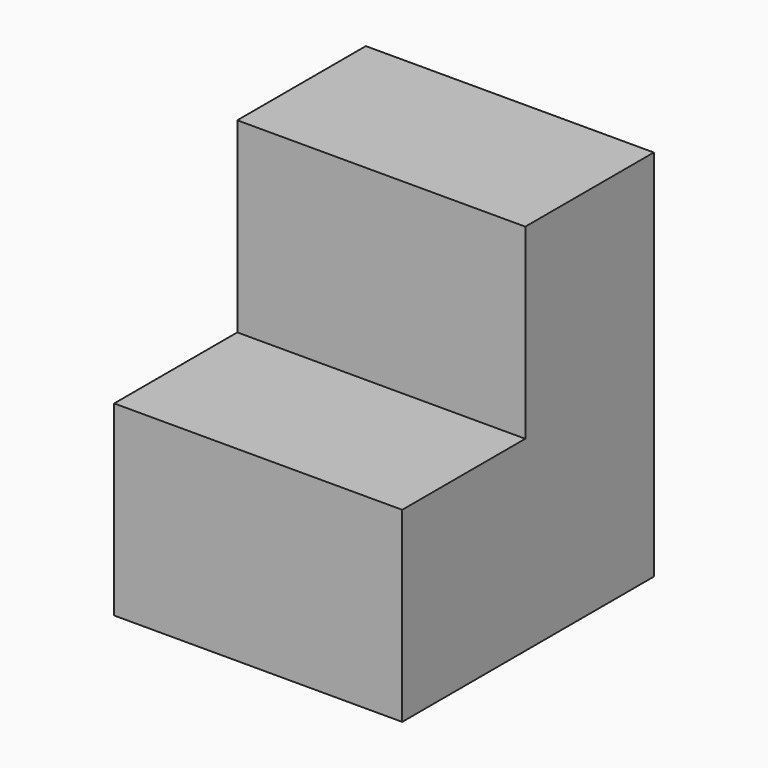
from build123d import *

# Parameters (mm, degrees)
F0_W     = 97.9424
F0_H     = 54.6354
F1_DEPTH = 63.5
F2_W     = 97.9424
F2_H     = 63.5
F3_DEPTH = 52.324


with BuildPart() as f1:
    # F0 (on Top) → F1 (new body, symmetric)
    with BuildSketch(Plane.XY):
        Rectangle(F0_W, F0_H)
    extrude(amount=F1_DEPTH, both=True)

    # F2 (on face) → F3 (join)
    with BuildSketch(Plane.XZ.offset(27.3177)):
        with Locations((0, -31.75)):
            Rectangle(F2_W, F2_H)
    extrude(amount=F3_DEPTH)


solid = f1.part
